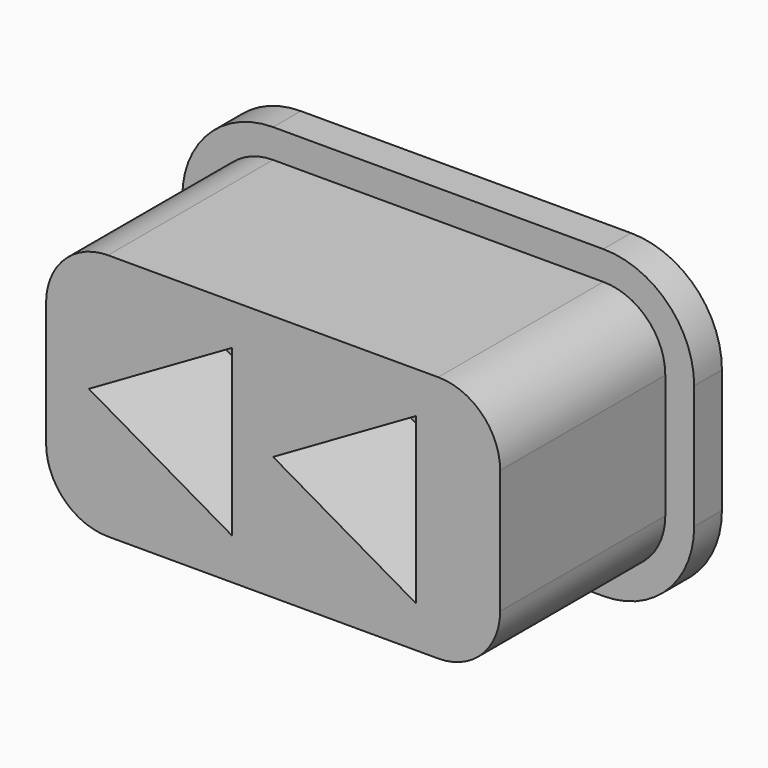
from build123d import *

# Parameters (mm, degrees)
PAD010_START            = 3.08
PAD010_DEPTH            = 0.42
PAD011_START            = 3.5
PAD011_DEPTH            = 2.5
POCKET012_START         = 4.3
POCKET012_DEPTH         = 5.7
BODY008_PLACEMENT_ANGLE = 180


with BuildPart() as part:
    # Sketch026 → Pad010 (new body)
    with BuildSketch(Plane.XZ.offset(PAD010_START)):
        with BuildLine():
            Line((6.164998, 8.15), (6.164998, 6.65))
            ThreePointArc((6.164998, 6.65), (6.48718, 5.872183), (7.264998, 5.55))
            Line((7.264998, 5.55), (11.264998, 5.55))
            ThreePointArc((11.264998, 5.55), (12.042815, 5.872183), (12.364998, 6.65))
            Line((12.364998, 6.65), (12.364998, 8.15))
            ThreePointArc((12.364998, 8.15), (12.042815, 8.927817), (11.264998, 9.25))
            Line((11.264998, 9.25), (7.264998, 9.25))
            ThreePointArc((7.264998, 9.25), (6.48718, 8.927817), (6.164998, 8.15))
        make_face()
    extrude(amount=PAD010_DEPTH)

    # Sketch027 → Pad011 (join)
    with BuildSketch(Plane.XZ.offset(PAD011_START)):
        with BuildLine():
            Line((6.514998, 8.15), (6.514998, 6.65))
            ThreePointArc((6.514998, 6.65), (6.734668, 6.11967), (7.264998, 5.9))
            Line((7.264998, 5.9), (11.264998, 5.9))
            ThreePointArc((11.264998, 5.9), (11.795328, 6.11967), (12.014998, 6.65))
            Line((12.014998, 6.65), (12.014998, 8.15))
            ThreePointArc((12.014998, 8.15), (11.795328, 8.68033), (11.264998, 8.9))
            Line((11.264998, 8.9), (7.264998, 8.9))
            ThreePointArc((7.264998, 8.9), (6.734668, 8.68033), (6.514998, 8.15))
        make_face()
    extrude(amount=PAD011_DEPTH)


with BuildPart() as part_1:
    # Body006 placement: moved
    add(part.part.moved(Location((0, -0.68, 0))))


with BuildPart() as part_2:
    # Clone001 placement: moved
    add(part_1.part.moved(Location((0, 0.68, 0))))

    # Sketch028 → Pocket012 (cut)
    with BuildSketch(Plane.XZ.offset(POCKET012_START)):
        Polygon((9.764998, 6.4), (9.764998, 8.4), (11.497049, 7.4), align=None)
        Polygon((7.532947, 8.4), (7.532947, 6.4), (9.264998, 7.4), align=None)
    extrude(amount=POCKET012_DEPTH, mode=Mode.SUBTRACT)


with BuildPart() as part_3:
    # Body008 placement: moved
    add(part_2.part.moved(Location((0.4, 0, 14.8))).rotate(Axis((0.4, 0, 14.8), (0, 1, 0)), BODY008_PLACEMENT_ANGLE))


solid = part_3.part
